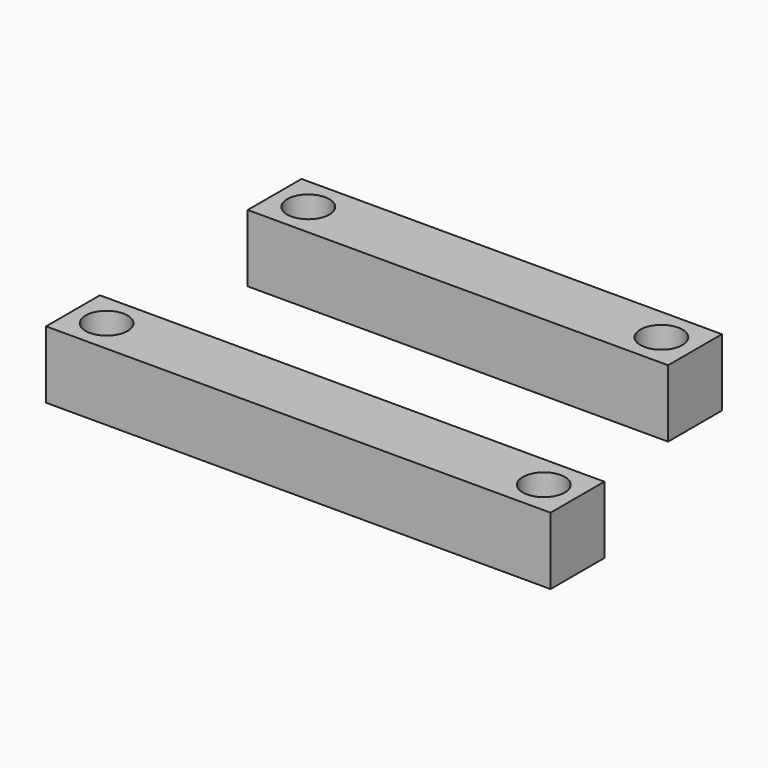
from build123d import *

# Parameters (mm, degrees)
F0_W     = 25
F0_H     = 4
F0_R     = 1.25
F1_DEPTH = 4
F0_W_2   = 30
F2_DEPTH = 4


with BuildPart() as f1:
    # F0 (on Top) → F1 (new body)
    with BuildSketch(Plane.XY):
        with Locations((12.5, 2)):
            Rectangle(F0_W, F0_H)
        with Locations((2, 2)):
            Circle(F0_R, mode=Mode.SUBTRACT)
        with Locations((23, 2)):
            Circle(F0_R, mode=Mode.SUBTRACT)
    extrude(amount=F1_DEPTH)


with BuildPart() as f2:
    # F0 (on Top) → F2 (new body)
    with BuildSketch(Plane.XY):
        with Locations((15, -12.988641)):
            Rectangle(F0_W_2, F0_H)
        with Locations((2, -12.988641)):
            Circle(F0_R, mode=Mode.SUBTRACT)
        with Locations((28, -12.988641)):
            Circle(F0_R, mode=Mode.SUBTRACT)
    extrude(amount=F2_DEPTH)


solid = Compound([f1.part, f2.part])
